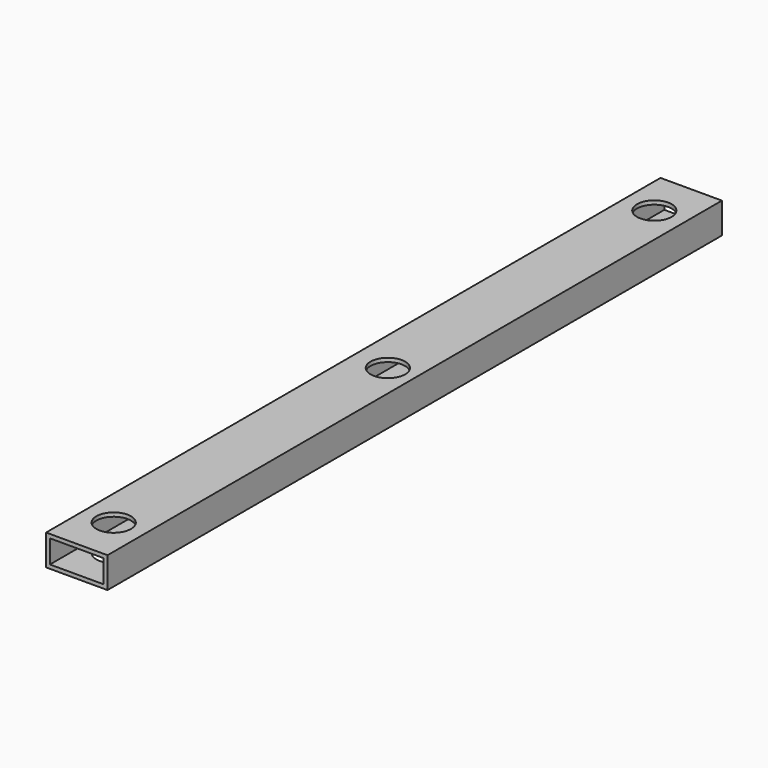
from build123d import *

# Parameters (mm, degrees)
F0_W     = 50.8
F0_H     = 25.4
F0_W_2   = 44.45
F0_H_2   = 19.05
F1_DEPTH = 635
F2_R     = 14.2875
F3_DEPTH = 25.401


with BuildPart() as f1:
    # F0 (on Front) → F1 (new body)
    with BuildSketch(Plane.XZ):
        with Locations((25.4, 12.7)):
            Rectangle(F0_W, F0_H)
        with Locations((25.4, 12.7)):
            Rectangle(F0_W_2, F0_H_2, mode=Mode.SUBTRACT)
    extrude(amount=F1_DEPTH)

    # F2 (on face) → F3 (cut, through all)
    with BuildSketch(Plane.XY.offset(25.4)):
        with Locations((25.4, -38.11804)):
            Circle(F2_R)
        with Locations((28.575, -317.5)):
            Circle(F2_R)
        with Locations((25.4, -596.88196)):
            Circle(F2_R)
    extrude(amount=-F3_DEPTH, mode=Mode.SUBTRACT)


solid = f1.part
